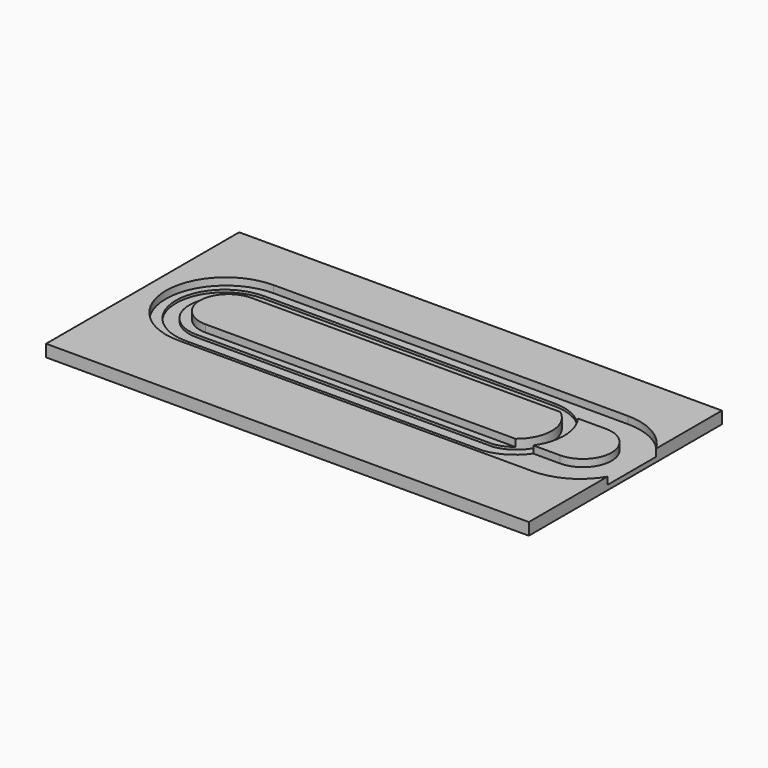
from build123d import *

# Parameters (mm, degrees)
F0_W     = 2000
F0_H     = 1000
F1_DEPTH = 50
F3_DEPTH = 30
F5_DEPTH = 40


with BuildPart() as f1:
    # F0 (on Top) → F1 (new body)
    with BuildSketch(Plane.XY):
        with Locations((29.7885835171, -55.6066778026)):
            Rectangle(F0_W, F0_H)
    extrude(amount=F1_DEPTH)

    # F2 (on face) → F3 (cut)
    with BuildSketch(Plane.XY.offset(50)):
        with BuildLine():
            Line((816.4165019989, 225.2072840929), (-652.1881222725, 225.2072840929))
            ThreePointArc((-652.1881222725, 225.2072840929), (-899.8625352979, -22.4671289325), (-652.1881222725, -270.1415419579))
            Line((-652.1881222725, -270.1415419579), (816.4165019989, -270.1415419579))
            ThreePointArc((816.4165019989, -270.1415419579), (939.2897686207, -237.5131128921), (1029.7885835171, -148.2247119884))
            Line((1029.7885835171, -148.2247119884), (1029.7885835171, 103.2904541234))
            ThreePointArc((1029.7885835171, 103.2904541234), (939.2897686207, 192.5788550272), (816.4165019989, 225.2072840929))
        make_face()
        with BuildLine():
            Line((816.4165019989, -127.1182894707), (-652.1881222725, -127.1182894707))
            ThreePointArc((-652.1881222725, -127.1182894707), (-770.7927748561, -8.5136368871), (-652.1881222725, 110.0910156965))
            Line((-652.1881222725, 110.0910156965), (816.4165019989, 110.0910156965))
            ThreePointArc((816.4165019989, 110.0910156965), (935.0211545825, -8.5136368871), (816.4165019989, -127.1182894707))
        make_face(mode=Mode.SUBTRACT)
    extrude(amount=-F3_DEPTH, mode=Mode.SUBTRACT)

    # F4 (on face) → F5 (cut)
    with BuildSketch(Plane.XY.offset(50)):
        with BuildLine():
            Line((539.0909314156, 190.3235763311), (-666.1416292191, 190.3235763311))
            ThreePointArc((-666.1416292191, 190.3235763311), (-867.5951212645, -11.1299157143), (-666.1416292191, -212.5834077597))
            Line((-666.1416292191, -212.5834077597), (565.2537345886, -212.5834077597))
            ThreePointArc((565.2537345886, -212.5834077597), (740.9686977118, 1.1295941099), (539.0909314156, 190.3235763311))
        make_face()
        with BuildLine():
            Line((561.7653727531, -156.7694544792), (-666.1416292191, -156.7694544792))
            ThreePointArc((-666.1416292191, -156.7694544792), (-813.5253489017, -9.3857347965), (-666.1416292191, 137.9979848862))
            Line((-666.1416292191, 137.9979848862), (540.835082531, 137.9979848862))
            ThreePointArc((540.835082531, 137.9979848862), (688.589879711, 0.362669805), (561.7653727531, -156.7694544792))
        make_face(mode=Mode.SUBTRACT)
    extrude(amount=-F5_DEPTH, mode=Mode.SUBTRACT)


solid = f1.part
